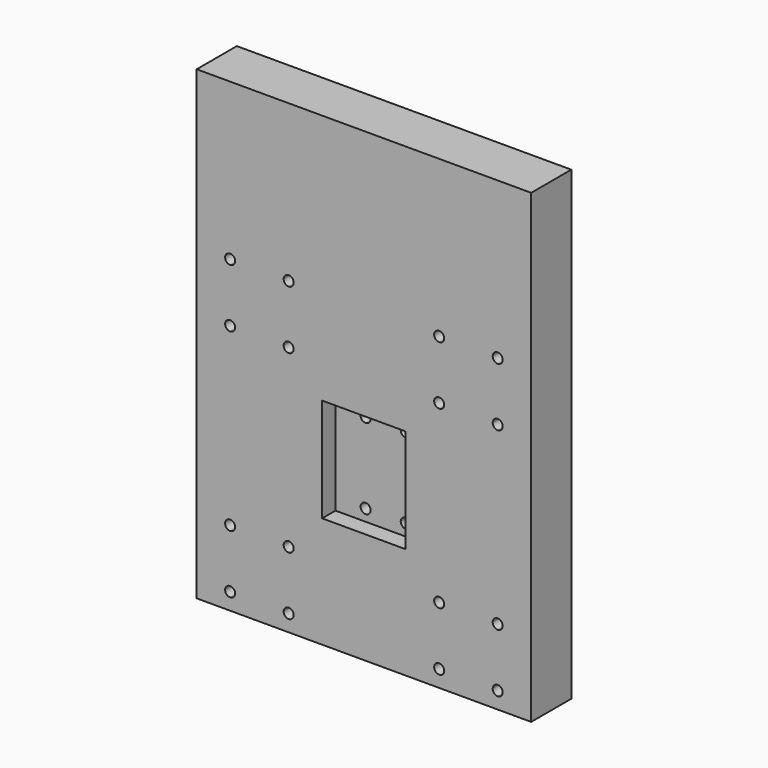
from build123d import *

# Parameters (mm, degrees)
F0_W      = 200
F0_H      = 400
F1_DEPTH  = 30
F3_DEPTH  = 30
F4_W      = 50
F4_H      = 62
F5_DEPTH  = 10
F6_R      = 6
F7_DEPTH  = 8
F9_DEPTH  = 30
F10_W     = 200
F10_H     = 121.5
F11_DEPTH = 30


with BuildPart() as f1:
    # F0 (on Front) → F1 (new body)
    with BuildSketch(Plane.XZ):
        with Locations((100, 200)):
            Rectangle(F0_W, F0_H)
    extrude(amount=F1_DEPTH)

    # F2 (on face) → F3 (cut)
    with BuildSketch(Plane.XZ.offset(30)):
        with BuildLine():
            ThreePointArc((23, 185), (17.8786796564, 187.1213203436), (20, 182))
            Line((20, 182), (20, 185))
            Line((20, 185), (23, 185))
        make_face()
        with BuildLine():
            Line((20, 185), (20, 182))
            ThreePointArc((20, 182), (22.1213203436, 182.8786796564), (23, 185))
            Line((23, 185), (20, 185))
        make_face()
        with BuildLine():
            ThreePointArc((20, 153), (17, 150), (20, 147))
            Line((20, 147), (20, 150))
            Line((20, 150), (20, 153))
        make_face()
        with BuildLine():
            Line((20, 153), (20, 150))
            Line((20, 150), (23, 150))
            ThreePointArc((23, 150), (22.1213203436, 152.1213203436), (20, 153))
        make_face()
        with BuildLine():
            Line((20, 150), (20, 147))
            ThreePointArc((20, 147), (22.1213203436, 147.8786796564), (23, 150))
            Line((23, 150), (20, 150))
        make_face()
        with BuildLine():
            Line((55, 150), (52, 150))
            ThreePointArc((52, 150), (52.8786796564, 147.8786796564), (55, 147))
            Line((55, 147), (55, 150))
        make_face()
        with BuildLine():
            ThreePointArc((55, 153), (52.8786796564, 152.1213203436), (52, 150))
            Line((52, 150), (55, 150))
            Line((55, 150), (55, 153))
        make_face()
        with BuildLine():
            Line((55, 150), (55, 147))
            ThreePointArc((55, 147), (57.1213203436, 147.8786796564), (58, 150))
            ThreePointArc((58, 150), (57.1213203436, 152.1213203436), (55, 153))
            Line((55, 153), (55, 150))
        make_face()
        with BuildLine():
            Line((55, 185), (52, 185))
            ThreePointArc((52, 185), (52.8786796564, 182.8786796564), (55, 182))
            Line((55, 182), (55, 185))
        make_face()
        with BuildLine():
            ThreePointArc((58, 185), (55, 188), (52, 185))
            Line((52, 185), (55, 185))
            Line((55, 185), (55, 182))
            ThreePointArc((55, 182), (57.1213203436, 182.8786796564), (58, 185))
        make_face()
        with BuildLine():
            ThreePointArc((148, 185), (142.8786796564, 187.1213203436), (145, 182))
            Line((145, 182), (145, 185))
            Line((145, 185), (148, 185))
        make_face()
        with BuildLine():
            Line((145, 185), (145, 182))
            ThreePointArc((145, 182), (147.1213203436, 182.8786796564), (148, 185))
            Line((148, 185), (145, 185))
        make_face()
        with BuildLine():
            ThreePointArc((177, 185), (177.8786796564, 182.8786796564), (180, 182))
            Line((180, 182), (180, 185))
            Line((180, 185), (177, 185))
        make_face()
        with BuildLine():
            Line((180, 185), (180, 182))
            ThreePointArc((180, 182), (182.1213203436, 182.8786796564), (183, 185))
            ThreePointArc((183, 185), (180, 188), (177, 185))
            Line((177, 185), (180, 185))
        make_face()
        with BuildLine():
            ThreePointArc((177, 150), (177.8786796564, 147.8786796564), (180, 147))
            Line((180, 147), (180, 150))
            Line((180, 150), (177, 150))
        make_face()
        with BuildLine():
            Line((177, 150), (180, 150))
            Line((180, 150), (180, 153))
            ThreePointArc((180, 153), (177.8786796564, 152.1213203436), (177, 150))
        make_face()
        with BuildLine():
            Line((180, 150), (180, 147))
            ThreePointArc((180, 147), (182.1213203436, 147.8786796564), (183, 150))
            ThreePointArc((183, 150), (182.1213203436, 152.1213203436), (180, 153))
            Line((180, 153), (180, 150))
        make_face()
        with BuildLine():
            Line((145, 150), (145, 147))
            ThreePointArc((145, 147), (147.1213203436, 147.8786796564), (148, 150))
            Line((148, 150), (145, 150))
        make_face()
        with BuildLine():
            Line((145, 153), (145, 150))
            Line((145, 150), (148, 150))
            ThreePointArc((148, 150), (147.1213203436, 152.1213203436), (145, 153))
        make_face()
        with BuildLine():
            ThreePointArc((145, 153), (142, 150), (145, 147))
            Line((145, 147), (145, 150))
            Line((145, 150), (145, 153))
        make_face()
        with BuildLine():
            Line((180, 45), (180, 42))
            ThreePointArc((180, 42), (182.1213203436, 42.8786796564), (183, 45))
            ThreePointArc((183, 45), (182.1213203436, 47.1213203436), (180, 48))
            Line((180, 48), (180, 45))
        make_face()
        with BuildLine():
            ThreePointArc((177, 45), (177.8786796564, 42.8786796564), (180, 42))
            Line((180, 42), (180, 45))
            Line((180, 45), (177, 45))
        make_face()
        with BuildLine():
            Line((177, 45), (180, 45))
            Line((180, 45), (180, 48))
            ThreePointArc((180, 48), (177.8786796564, 47.1213203436), (177, 45))
        make_face()
        with BuildLine():
            Line((145, 45), (145, 42))
            ThreePointArc((145, 42), (147.1213203436, 42.8786796564), (148, 45))
            Line((148, 45), (145, 45))
        make_face()
        with BuildLine():
            Line((145, 45), (148, 45))
            ThreePointArc((148, 45), (147.1213203436, 47.1213203436), (145, 48))
            Line((145, 48), (145, 45))
        make_face()
        with BuildLine():
            ThreePointArc((145, 48), (142, 45), (145, 42))
            Line((145, 42), (145, 45))
            Line((145, 45), (145, 48))
        make_face()
        with BuildLine():
            ThreePointArc((145, 13), (142.8786796564, 7.8786796564), (148, 10))
            Line((148, 10), (145, 10))
            Line((145, 10), (145, 13))
        make_face()
        with BuildLine():
            Line((145, 10), (148, 10))
            ThreePointArc((148, 10), (147.1213203436, 12.1213203436), (145, 13))
            Line((145, 13), (145, 10))
        make_face()
        with BuildLine():
            ThreePointArc((177, 10), (177.8786796564, 7.8786796564), (180, 7))
            Line((180, 7), (180, 10))
            Line((180, 10), (177, 10))
        make_face()
        with BuildLine():
            Line((180, 13), (180, 10))
            Line((180, 10), (183, 10))
            ThreePointArc((183, 10), (182.1213203436, 12.1213203436), (180, 13))
        make_face()
        with BuildLine():
            Line((177, 10), (180, 10))
            Line((180, 10), (180, 13))
            ThreePointArc((180, 13), (177.8786796564, 12.1213203436), (177, 10))
        make_face()
        with BuildLine():
            Line((180, 10), (180, 7))
            ThreePointArc((180, 7), (182.1213203436, 7.8786796564), (183, 10))
            Line((183, 10), (180, 10))
        make_face()
        with BuildLine():
            Line((17, 10), (20, 10))
            Line((20, 10), (20, 13))
            ThreePointArc((20, 13), (17.8786796564, 12.1213203436), (17, 10))
        make_face()
        with BuildLine():
            Line((20, 7), (20, 10))
            Line((20, 10), (17, 10))
            ThreePointArc((17, 10), (17.8786796564, 7.8786796564), (20, 7))
        make_face()
        with BuildLine():
            Line((23, 10), (20, 10))
            Line((20, 10), (20, 7))
            ThreePointArc((20, 7), (22.1213203436, 7.8786796564), (23, 10))
        make_face()
        with BuildLine():
            Line((20, 13), (20, 10))
            Line((20, 10), (23, 10))
            ThreePointArc((23, 10), (22.1213203436, 12.1213203436), (20, 13))
        make_face()
        with BuildLine():
            Line((55, 10), (52, 10))
            ThreePointArc((52, 10), (55, 7), (58, 10))
            ThreePointArc((58, 10), (57.1213203436, 12.1213203436), (55, 13))
            Line((55, 13), (55, 10))
        make_face()
        with BuildLine():
            ThreePointArc((55, 13), (52.8786796564, 12.1213203436), (52, 10))
            Line((52, 10), (55, 10))
            Line((55, 10), (55, 13))
        make_face()
        with BuildLine():
            Line((55, 45), (55, 42))
            ThreePointArc((55, 42), (57.1213203436, 42.8786796564), (58, 45))
            ThreePointArc((58, 45), (57.1213203436, 47.1213203436), (55, 48))
            Line((55, 48), (55, 45))
        make_face()
        with BuildLine():
            ThreePointArc((52, 45), (52.8786796564, 42.8786796564), (55, 42))
            Line((55, 42), (55, 45))
            Line((55, 45), (52, 45))
        make_face()
        with BuildLine():
            ThreePointArc((55, 48), (52.8786796564, 47.1213203436), (52, 45))
            Line((52, 45), (55, 45))
            Line((55, 45), (55, 48))
        make_face()
        with BuildLine():
            Line((20, 45), (20, 42))
            ThreePointArc((20, 42), (22.1213203436, 42.8786796564), (23, 45))
            Line((23, 45), (20, 45))
        make_face()
        with BuildLine():
            ThreePointArc((20, 48), (17, 45), (20, 42))
            Line((20, 42), (20, 45))
            Line((20, 45), (20, 48))
        make_face()
        with BuildLine():
            Line((20, 48), (20, 45))
            Line((20, 45), (23, 45))
            ThreePointArc((23, 45), (22.1213203436, 47.1213203436), (20, 48))
        make_face()
    extrude(amount=-F3_DEPTH, mode=Mode.SUBTRACT)

    # F4 (on face) → F5 (cut)
    with BuildSketch(Plane.XZ.offset(30)):
        with Locations((100, 97.5)):
            Rectangle(F4_W, F4_H)
    extrude(amount=-F5_DEPTH, mode=Mode.SUBTRACT)

    # F6 (on face) → F7 (cut)
    with BuildSketch(Plane(origin=(0, 0, 0), x_dir=(-1, 0, 0), z_dir=(0, 1, 0))):
        with Locations((-180, 185)):
            Circle(F6_R)
        with Locations((-180, 150)):
            Circle(F6_R)
        with Locations((-145, 185)):
            Circle(F6_R)
        with Locations((-145, 150)):
            Circle(F6_R)
        with Locations((-180, 45)):
            Circle(F6_R)
        with Locations((-180, 10)):
            Circle(F6_R)
        with Locations((-145, 45)):
            Circle(F6_R)
        with Locations((-145, 10)):
            Circle(F6_R)
        with Locations((-55, 185)):
            Circle(F6_R)
        with Locations((-55, 150)):
            Circle(F6_R)
        with Locations((-20, 185)):
            Circle(F6_R)
        with Locations((-20, 150)):
            Circle(F6_R)
        with Locations((-55, 45)):
            Circle(F6_R)
        with Locations((-55, 10)):
            Circle(F6_R)
        with Locations((-20, 45)):
            Circle(F6_R)
        with Locations((-20, 10)):
            Circle(F6_R)
    extrude(amount=-F7_DEPTH, mode=Mode.SUBTRACT)

    # F8 (on face) → F9 (cut)
    with BuildSketch(Plane.XZ.offset(20)):
        with BuildLine():
            Line((93, 121.5), (93, 118.5))
            ThreePointArc((93, 118.5), (95.1213203436, 119.3786796564), (96, 121.5))
            Line((96, 121.5), (93, 121.5))
        make_face()
        with BuildLine():
            ThreePointArc((96, 121.5), (90.8786796564, 123.6213203436), (93, 118.5))
            Line((93, 118.5), (93, 121.5))
            Line((93, 121.5), (96, 121.5))
        make_face()
        with BuildLine():
            ThreePointArc((114, 121.5), (114.8786796564, 119.3786796564), (117, 118.5))
            Line((117, 118.5), (117, 121.5))
            Line((117, 121.5), (114, 121.5))
        make_face()
        with BuildLine():
            Line((117, 121.5), (117, 118.5))
            ThreePointArc((117, 118.5), (119.1213203436, 119.3786796564), (120, 121.5))
            ThreePointArc((120, 121.5), (117, 124.5), (114, 121.5))
            Line((114, 121.5), (117, 121.5))
        make_face()
        with BuildLine():
            Line((96, 73.5), (93, 73.5))
            Line((93, 73.5), (93, 76.5))
            ThreePointArc((93, 76.5), (90.8786796564, 71.3786796564), (96, 73.5))
        make_face()
        with BuildLine():
            Line((93, 76.5), (93, 73.5))
            Line((93, 73.5), (96, 73.5))
            ThreePointArc((96, 73.5), (95.1213203436, 75.6213203436), (93, 76.5))
        make_face()
        with BuildLine():
            ThreePointArc((117, 76.5), (114.8786796564, 75.6213203436), (114, 73.5))
            Line((114, 73.5), (117, 73.5))
            Line((117, 73.5), (117, 76.5))
        make_face()
        with BuildLine():
            Line((117, 73.5), (114, 73.5))
            ThreePointArc((114, 73.5), (117, 70.5), (120, 73.5))
            ThreePointArc((120, 73.5), (119.1213203436, 75.6213203436), (117, 76.5))
            Line((117, 76.5), (117, 73.5))
        make_face()
    extrude(amount=-F9_DEPTH, mode=Mode.SUBTRACT)

    # F10 (on face) → F11 (cut)
    with BuildSketch(Plane(origin=(0, 0, 0), x_dir=(-1, 0, 0), z_dir=(0, 1, 0))):
        with Locations((-100, 339.25)):
            Rectangle(F10_W, F10_H)
    extrude(amount=-F11_DEPTH, mode=Mode.SUBTRACT)


solid = f1.part
